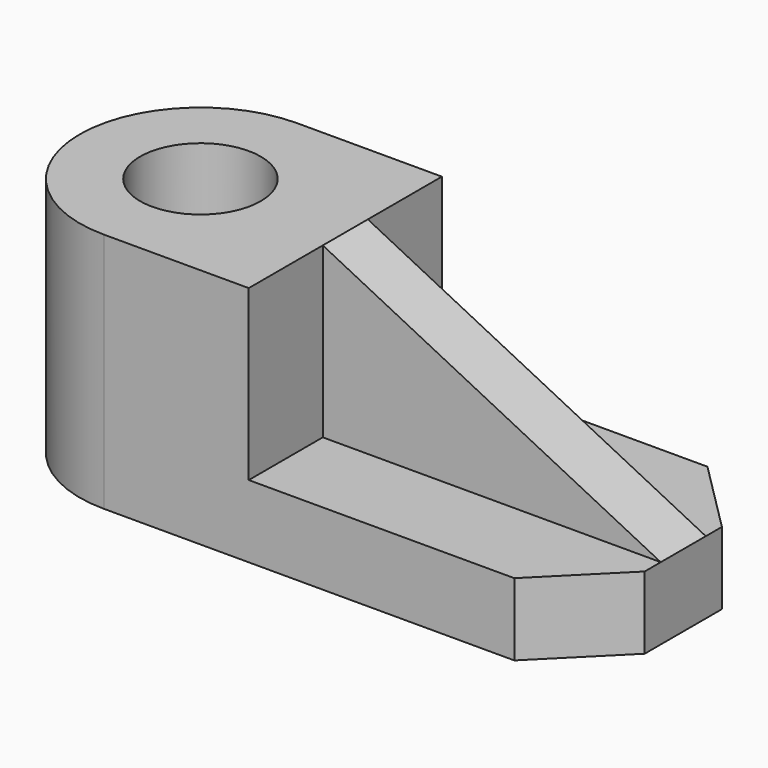
from build123d import *

# Parameters (mm, degrees)
F0_R     = 190.5
F1_DEPTH = 762
F2_W     = 762
F2_H     = 228.6
F3_DEPTH = 1066.8
F5_DEPTH = 228.601
F6_W     = 177.8
F6_H     = 533.4
F7_DEPTH = 1066.8
F9_DEPTH = 469.901


with BuildPart() as f1:
    # F0 (on Top) → F1 (new body)
    with BuildSketch(Plane.XY):
        with BuildLine():
            ThreePointArc((0, 381), (-381, 0), (0, -381))
            ThreePointArc((0, -381), (269.407684, -269.407684), (381, 0))
            ThreePointArc((381, 0), (269.407684, 269.407684), (0, 381))
        make_face()
        Circle(F0_R, mode=Mode.SUBTRACT)
        with BuildLine():
            ThreePointArc((381, 0), (269.407684, -269.407684), (0, -381))
            Line((0, -381), (457.2, -381))
            Line((457.2, -381), (457.2, 381))
            Line((457.2, 381), (0, 381))
            ThreePointArc((0, 381), (269.407684, 269.407684), (381, 0))
        make_face()
    extrude(amount=F1_DEPTH)

    # F2 (on face) → F3 (join)
    with BuildSketch(Plane.YZ.offset(457.2)):
        with Locations((0, 114.3)):
            Rectangle(F2_W, F2_H)
    extrude(amount=F3_DEPTH)

    # F4 (on face) → F5 (cut, through all)
    with BuildSketch(Plane.XY.offset(228.6)):
        Polygon((1295.4, 381), (1524, 152.4), (1524, 381), align=None)
        Polygon((1295.4, -381), (1524, -381), (1524, -152.4), align=None)
    extrude(amount=-F5_DEPTH, mode=Mode.SUBTRACT)

    # F6 (on face) → F7 (join)
    with BuildSketch(Plane.YZ.offset(457.2)):
        with Locations((0, 495.3)):
            Rectangle(F6_W, F6_H)
    extrude(amount=F7_DEPTH)

    # F8 (on face) → F9 (cut, through all)
    with BuildSketch(Plane.XZ.offset(88.9)):
        Polygon((1524, 762), (457.2, 762), (1524, 228.6), align=None)
    extrude(amount=-F9_DEPTH, mode=Mode.SUBTRACT)


solid = f1.part
